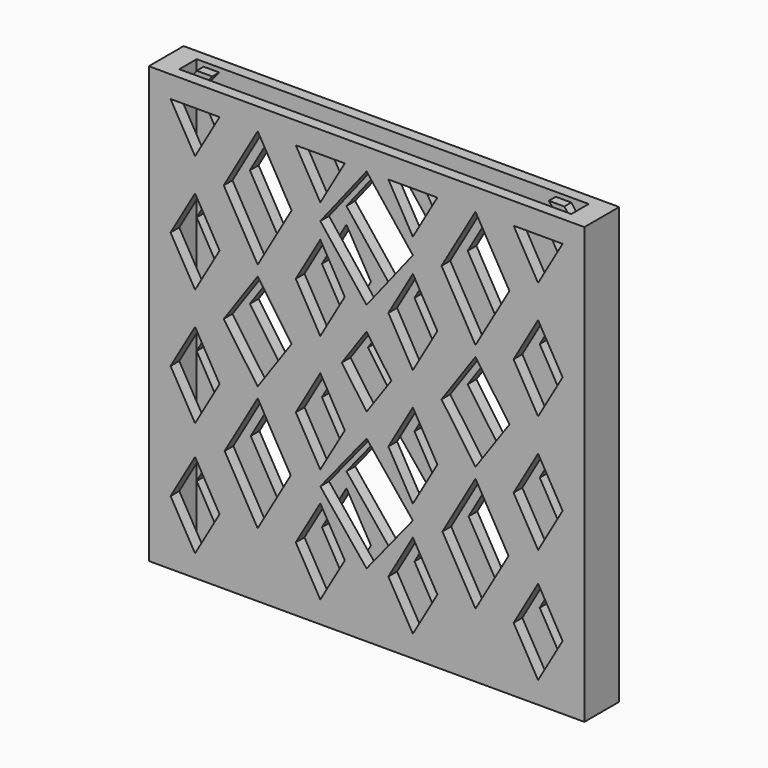
from build123d import *

# Parameters (mm, degrees)
F0_W      = 254
F0_H      = 254
F1_DEPTH  = 12.7
F2_W      = 228.6
F2_H      = 12.7
F3_DEPTH  = 254
F5_DEPTH  = 123.698
F7_DEPTH  = 127
F12_DEPTH = 2.54


with BuildPart() as f1:
    # F0 (on Front) → F1 (new body, symmetric)
    with BuildSketch(Plane.XZ):
        Rectangle(F0_W, F0_H)
    extrude(amount=F1_DEPTH, both=True)

    # F2 (on face) → F3 (cut)
    with BuildSketch(Plane.XY.offset(127)):
        Rectangle(F2_W, F2_H)
    extrude(amount=-F3_DEPTH, mode=Mode.SUBTRACT)

    # F4 (on face) → F5 (cut)
    with BuildSketch(Plane.XZ.offset(12.7)):
        Polygon((100.0125, -114.3), (114.3, -89.5533240869), (85.725, -89.5533240869), align=None)
        Polygon((85.725, -89.5533240869), (114.3, -89.5533240869), (100.0125, -64.8066481737), align=None)
        Polygon((41.275, -89.5533240869), (12.7, -89.5533240869), (26.9875, -114.3), align=None)
        Polygon((26.9875, -64.8066481737), (12.7, -89.5533240869), (41.275, -89.5533240869), align=None)
        Polygon((-41.275, -89.5533240869), (-26.9875, -114.3), (-12.7, -89.5533240869), align=None)
        Polygon((-26.9875, -64.8066481737), (-41.275, -89.5533240869), (-12.7, -89.5533240869), align=None)
        Polygon((-85.725, -89.5533240869), (-114.3, -89.5533240869), (-100.0125, -114.3), align=None)
        Polygon((-100.0125, -64.8066481737), (-114.3, -89.5533240869), (-85.725, -89.5533240869), align=None)
        Polygon((-85.725, -22.7867036526), (-114.3, -22.7867036526), (-100.0125, -47.5333795657), align=None)
        Polygon((-100.0125, 1.9599722606), (-114.3, -22.7867036526), (-85.725, -22.7867036526), align=None)
        Polygon((-26.9875, -47.5333795657), (-12.7, -22.7867036526), (-41.275, -22.7867036526), align=None)
        Polygon((-41.275, -22.7867036526), (-12.7, -22.7867036526), (-26.9875, 1.9599722606), align=None)
        Polygon((12.7, -22.7867036526), (26.9875, -47.5333795657), (41.275, -22.7867036526), align=None)
        Polygon((26.9875, 1.9599722606), (12.7, -22.7867036526), (41.275, -22.7867036526), align=None)
        Polygon((100.0125, -47.5333795657), (114.3, -22.7867036526), (85.725, -22.7867036526), align=None)
        Polygon((114.3, -22.7867036526), (100.0125, 1.9599722606), (85.725, -22.7867036526), align=None)
        Polygon((100.0125, 21.0099722606), (114.3, 45.7566481737), (85.725, 45.7566481737), align=None)
        Polygon((85.725, 45.7566481737), (114.3, 45.7566481737), (100.0125, 70.5033240869), align=None)
        Polygon((26.9875, 21.0099722606), (41.275, 45.7566481737), (12.7, 45.7566481737), align=None)
        Polygon((12.7, 45.7566481737), (41.275, 45.7566481737), (26.9875, 70.5033240869), align=None)
        Polygon((-12.7, 45.7566481737), (-41.275, 45.7566481737), (-26.9875, 21.0099722606), align=None)
        Polygon((-26.9875, 70.5033240869), (-41.275, 45.7566481737), (-12.7, 45.7566481737), align=None)
        Polygon((-100.0125, 21.0099722606), (-85.725, 45.7566481737), (-114.3, 45.7566481737), align=None)
        Polygon((-114.3, 45.7566481737), (-85.725, 45.7566481737), (-100.0125, 70.5033240869), align=None)
        Polygon((-85.725, 114.3), (-114.3, 114.3), (-100.0125, 89.5533240869), align=None)
        Polygon((-41.275, 114.3), (-26.9875, 89.5533240869), (-12.7, 114.3), align=None)
        Polygon((26.9875, 89.5533240869), (41.275, 114.3), (12.7, 114.3), align=None)
        Polygon((100.0125, 89.5533240869), (114.3, 114.3), (85.725, 114.3), align=None)
    extrude(amount=-F5_DEPTH, mode=Mode.SUBTRACT)

    # F6 (on face) → F7 (cut)
    with BuildSketch(Plane.XZ.offset(12.7)):
        Polygon((-83.286761314, 80.0283240869), (-63.5, 45.7566481737), (-43.713238686, 80.0283240869), (-63.5, 114.3), align=None)
        Polygon((0, 114.3), (-26.9875, 80.0283240869), (0, 45.7566481737), (26.9875, 80.0283240869), align=None)
        Polygon((63.5, 114.3), (43.713238686, 80.0283240869), (63.5, 45.7566481737), (83.286761314, 80.0283240869), align=None)
        Polygon((43.713238686, 11.4849722606), (63.5, -16.7734514699), (83.286761314, 11.4849722606), (63.5, 39.7433959911), align=None)
        Polygon((-14.4234500234, 11.4849722606), (0, -9.1138491407), (14.4234500234, 11.4849722606), (0, 32.0837936619), align=None)
        Polygon((-43.713238686, 11.4849722606), (-63.5, 39.7433959911), (-83.286761314, 11.4849722606), (-63.5, -16.7734514699), align=None)
        Polygon((-44.2261368597, -56.1700138697), (-63.5, -22.7867036526), (-82.7738631403, -56.1700138697), (-63.5, -89.5533240869), align=None)
        Polygon((26.9875, -56.1700138697), (0, -22.7867036526), (-26.9875, -56.1700138697), (0, -89.5533240869), align=None)
        Polygon((63.5, -22.7867036526), (44.2261368597, -56.1700138697), (63.5, -89.5533240869), (82.7738631403, -56.1700138697), align=None)
    extrude(amount=-F7_DEPTH, mode=Mode.SUBTRACT)

    # F11 (on offset) → F12 (join, symmetric)
    with BuildSketch(Plane(origin=(0, 0, 0), x_dir=(-1, 0, 0), z_dir=(0, 1, 0))):
        Polygon((107.1759773005, 127), (98.1254565012, 127), (114.3, 107.4695479705), (114.3, 117.6295479705), align=None)
        Polygon((-114.3, 107.4695479705), (-98.1254565012, 127), (-107.1759773005, 127), (-114.3, 117.6295479705), align=None)
    extrude(amount=F12_DEPTH, both=True)


solid = f1.part
